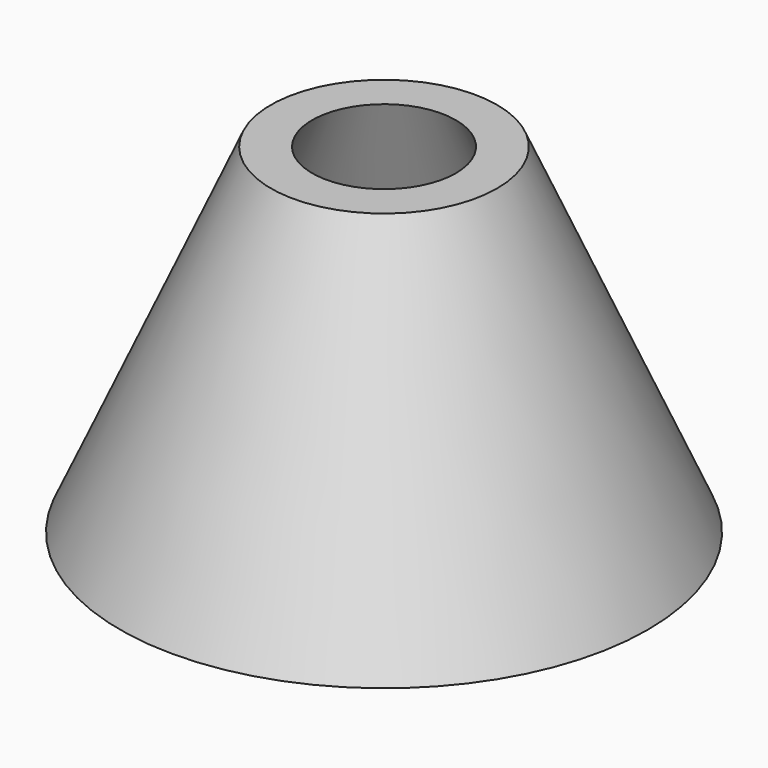
from build123d import *


with BuildPart() as f1:
    # F0 (on Front) → F1 (revolve)
    with BuildSketch(Plane.XZ):
        Polygon((75, 117.565624), (47.642062, 117.565624), (47.753173, 117.315624), (74.837532, 117.315624), (174.726421, -107.434376), (175, -107.434376), align=None)
        Polygon((74.837532, 117.315624), (47.753173, 117.315624), (147.642062, -107.434376), (174.726421, -107.434376), align=None)
    revolve(axis=Axis((0, 0, 5.065624), (0, 0, -1)))


solid = f1.part
